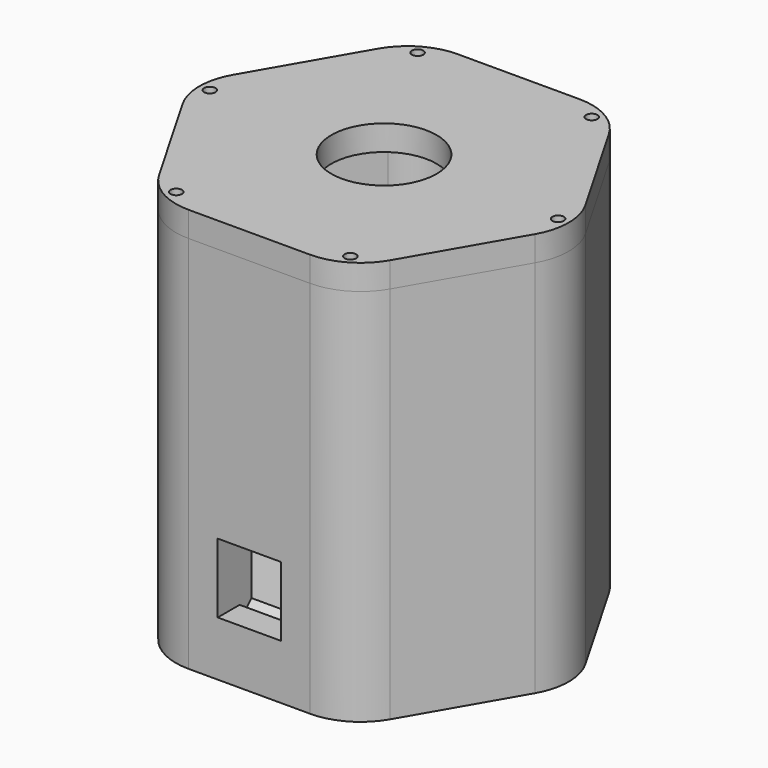
from build123d import *

# Parameters (mm, degrees)
F6_DEPTH  = 90
F7_R      = 15
F8_DEPTH  = 6
F10_DEPTH = 85
F11_R     = 1.35
F12_DEPTH = 20
F13_DEPTH = 6
F14_R     = 12.5
F15_DEPTH = 6
F16_W     = 15
F16_H     = 16.5
F17_DEPTH = 5
F18_W     = 23
F18_H     = 30.5
F18_W_2   = 15
F18_H_2   = 16.5
F19_DEPTH = 5
F21_DEPTH = 15


with BuildPart() as f6:
    # F5 (on Top) → F6 (new body)
    with BuildSketch(Plane.XY):
        Polygon((23.0940107676, 40), (-23.0940107676, 40), (-46.1880215352, 0), (-23.0940107676, -40), (23.0940107676, -40), (46.1880215352, 0), align=None)
    extrude(amount=F6_DEPTH)

    # F7
    f7_edges = [f6.edges().sort_by_distance(p)[0] for p in [
        (-23.094011, -40, 45),
        (-46.188022, 0, 45),
        (-23.094011, 40, 45),
        (23.094011, 40, 45),
        (46.188022, 0, 45),
        (23.094011, -40, 45),
    ]]
    fillet(f7_edges, radius=F7_R)


with BuildPart() as f8:
    # F8 (new): a face of the model
    f8_faces = [f6.part.faces().sort_by_distance(p)[0] for p in [
        (0, 0, 90),
    ]]
    extrude(f8_faces, amount=F8_DEPTH)

    # F11 (on face) → F13 (cut)
    with BuildSketch(Plane.XY.offset(90)):
        with Locations((-20.6837567297, 35.8253175473)):
            Circle(F11_R)
        with Locations((-41.3675134595, 0)):
            Circle(F11_R)
        with Locations((-20.6837567297, -35.8253175473)):
            Circle(F11_R)
        with Locations((41.3675134595, 0)):
            Circle(F11_R)
        with Locations((20.6837567297, 35.8253175473)):
            Circle(F11_R)
        with Locations((20.6837567297, -35.8253175473)):
            Circle(F11_R)
    extrude(amount=F13_DEPTH, mode=Mode.SUBTRACT)

    # F14 (on face) → F15 (cut)
    with BuildSketch(Plane.XY.offset(96)):
        Circle(F14_R)
    extrude(amount=-F15_DEPTH, mode=Mode.SUBTRACT)


with BuildPart() as f6_1:
    add(f6.part)

    # F9 (on face) → F10 (cut)
    with BuildSketch(Plane.XY.offset(90)):
        with BuildLine():
            Line((14.4337567297, 35), (-14.4337567297, 35))
            ThreePointArc((-14.4337567297, 35), (-19.4337567297, 33.6602540378), (-23.0940107676, 30))
            Line((-23.0940107676, 30), (-37.5277674973, 5))
            ThreePointArc((-37.5277674973, 5), (-38.8675134595, 0), (-37.5277674973, -5))
            Line((-37.5277674973, -5), (-23.0940107676, -30))
            ThreePointArc((-23.0940107676, -30), (-19.4337567297, -33.6602540378), (-14.4337567297, -35))
            Line((-14.4337567297, -35), (14.4337567297, -35))
            ThreePointArc((14.4337567297, -35), (19.4337567297, -33.6602540378), (23.0940107676, -30))
            Line((23.0940107676, -30), (37.5277674973, -5))
            ThreePointArc((37.5277674973, -5), (38.8675134595, 0), (37.5277674973, 5))
            Line((37.5277674973, 5), (23.0940107676, 30))
            ThreePointArc((23.0940107676, 30), (19.4337567297, 33.6602540378), (14.4337567297, 35))
        make_face()
    extrude(amount=-F10_DEPTH, mode=Mode.SUBTRACT)

    # F11 (on face) → F12 (cut)
    with BuildSketch(Plane.XY.offset(90)):
        with Locations((-41.3675134595, 0)):
            Circle(F11_R)
        with Locations((-20.6837567297, -35.8253175473)):
            Circle(F11_R)
        with Locations((20.6837567297, -35.8253175473)):
            Circle(F11_R)
        with Locations((41.3675134595, 0)):
            Circle(F11_R)
        with Locations((20.6837567297, 35.8253175473)):
            Circle(F11_R)
        with Locations((-20.6837567297, 35.8253175473)):
            Circle(F11_R)
    extrude(amount=-F12_DEPTH, mode=Mode.SUBTRACT)

    # F16 (on face) → F17 (cut, through all)
    with BuildSketch(Plane.XZ.offset(40)):
        with Locations((0, 21.25)):
            Rectangle(F16_W, F16_H)
    extrude(amount=-F17_DEPTH, mode=Mode.SUBTRACT)

    # F18 (on face) → F19 (join)
    with BuildSketch(Plane(origin=(0, -35, 0), x_dir=(-1, 0, 0), z_dir=(0, 1, 0))):
        with Locations((0, 20.25)):
            Rectangle(F18_W, F18_H)
        with Locations((0, 21.25)):
            Rectangle(F18_W_2, F18_H_2, mode=Mode.SUBTRACT)
    extrude(amount=F19_DEPTH)

    # F20 (on face) → F21 (cut, through all)
    with BuildSketch(Plane.YZ.offset(-7.5)):
        Polygon((-32, 11), (-30, 13), (-33.5, 13), (-33.5, 11), align=None)
        Polygon((-30, 31.5), (-32, 33.5), (-36, 33.5), (-36, 29.5), (-30, 29.5), align=None)
    extrude(amount=F21_DEPTH, mode=Mode.SUBTRACT)


solid = Compound([f8.part, f6_1.part])
